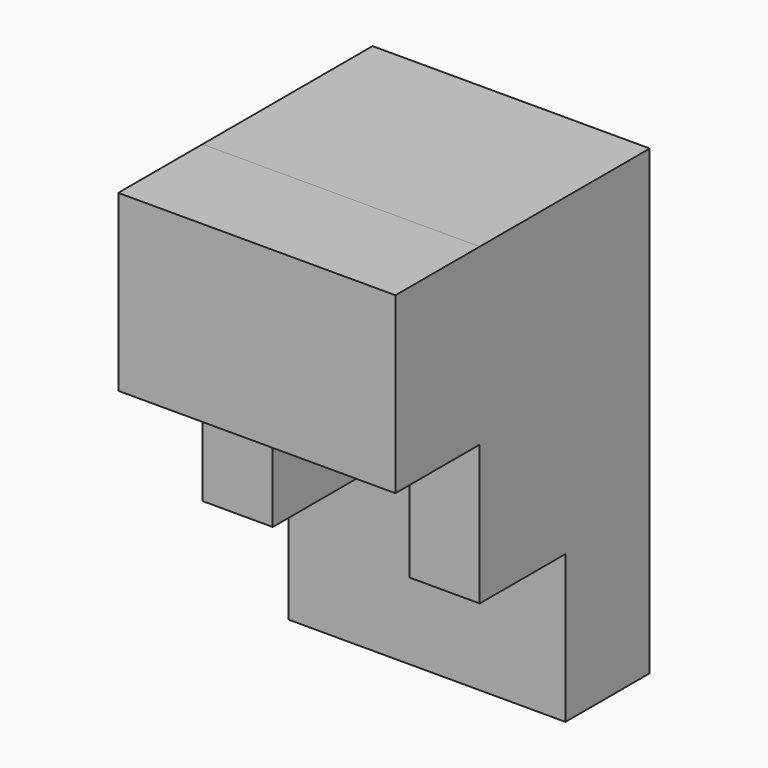
from build123d import *

# Parameters (mm, degrees)
F0_W     = 38.1
F0_H     = 63.5
F1_DEPTH = 14.478
F2_W     = 9.652
F2_H     = 43.18
F3_DEPTH = 14.732
F4_W     = 18.796
F4_H     = 24.13
F5_DEPTH = 14.732
F6_W     = 38.1
F6_H     = 23.952953
F7_DEPTH = 14.478


with BuildPart() as f1:
    # F0 (on Front) → F1 (new body)
    with BuildSketch(Plane.XZ):
        with Locations((-21.938948, 26.507085)):
            Rectangle(F0_W, F0_H)
    extrude(amount=F1_DEPTH)

    # F2 (on face) → F3 (join)
    with BuildSketch(Plane.XZ.offset(14.478)):
        with Locations((-36.162948, 36.667085)):
            Rectangle(F2_W, F2_H)
        with Locations((-7.714948, 36.667085)):
            Rectangle(F2_W, F2_H)
    extrude(amount=F3_DEPTH)

    # F4 (on face) → F5 (join, through all)
    with BuildSketch(Plane.XZ.offset(14.478)):
        with Locations((-21.938948, 46.192085)):
            Rectangle(F4_W, F4_H)
    extrude(amount=F5_DEPTH)

    # F6 (on face) → F7 (join)
    with BuildSketch(Plane.XZ.offset(29.21)):
        with Locations((-21.938948, 46.280608)):
            Rectangle(F6_W, F6_H)
    extrude(amount=F7_DEPTH)


solid = f1.part
